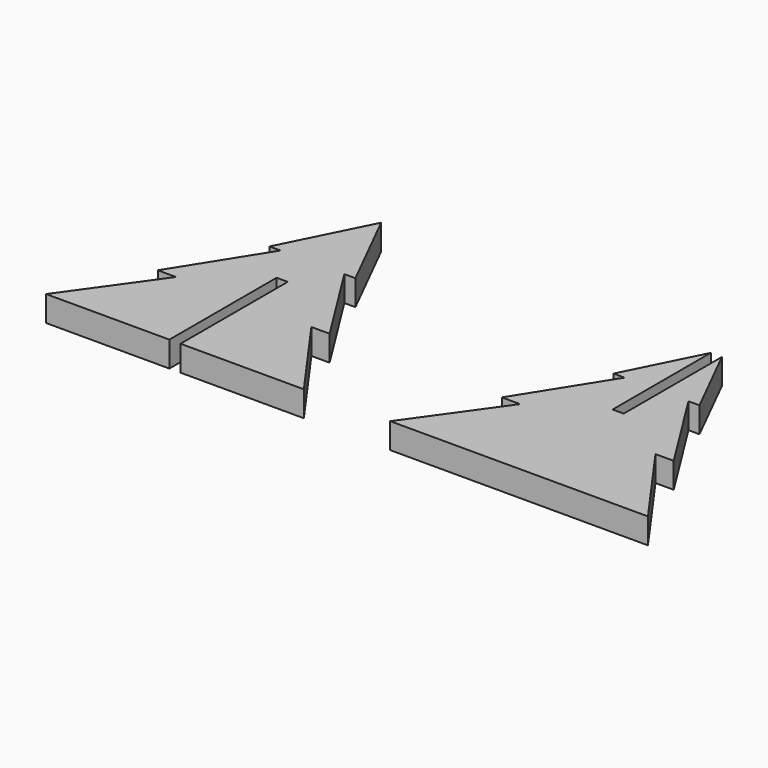
from build123d import *

# Parameters (mm, degrees)
F1_DEPTH = 1.5


with BuildPart() as f1:
    # F0 (on Top) → F1 (new body)
    with BuildSketch(Plane.XY):
        Polygon((-18.356969, 10.104657), (-17.708446, 10.104657), (-20.23461, 15.156986), (-22.760774, 10.104657), (-22.112251, 10.104657), (-25.286939, 5.052329), (-24.213863, 5.052329), (-27.813103, 0), (-20.561783, 0), (-20.561783, 0.654345), (-20.561783, 7.578493), (-20.561783, 7.878493), (-19.907437, 7.878493), (-19.907437, 7.578493), (-19.907437, 0.654345), (-19.907437, 0), (-12.656117, 0), (-16.255357, 5.052329), (-15.182281, 5.052329), align=None)
        Polygon((0, 0), (7.578493, 0), (3.979253, 5.052329), (5.052329, 5.052329), (1.877641, 10.104657), (2.526164, 10.104657), (0.327173, 14.502641), (0.327173, 7.578493), (0.327173, 7.282674), (-0.327173, 7.282674), (-0.327173, 7.578493), (-0.327173, 14.502641), (-2.526164, 10.104657), (-1.877641, 10.104657), (-5.052329, 5.052329), (-3.979253, 5.052329), (-7.578493, 0), align=None)
    extrude(amount=F1_DEPTH)


solid = f1.part
